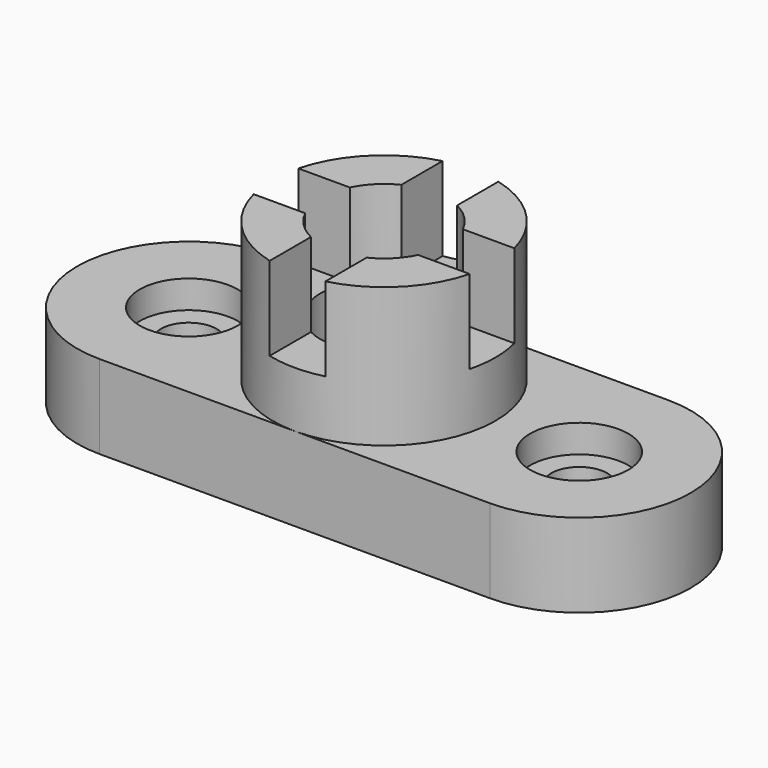
from build123d import *

# Parameters (mm, degrees)
F1_DEPTH  = 19.05
F2_R      = 25.4
F3_DEPTH  = 31.75
F5_DEPTH  = 19.05
F6_R      = 14.351
F7_DEPTH  = 31.751
F8_R      = 11.176
F9_DEPTH  = 6.35
F10_R     = 6.35
F11_DEPTH = 12.701


with BuildPart() as f1:
    # F0 (on Top) → F1 (new body)
    with BuildSketch(Plane.XY):
        with BuildLine():
            Line((48.867112, 25.4), (-40.032888, 25.4))
            ThreePointArc((-40.032888, 25.4), (-65.432888, 0), (-40.032888, -25.4))
            Line((-40.032888, -25.4), (48.867112, -25.4))
            ThreePointArc((48.867112, -25.4), (74.267112, 0), (48.867112, 25.4))
        make_face()
    extrude(amount=F1_DEPTH)

    # F2 (on face) → F3 (join)
    with BuildSketch(Plane.XY.offset(19.05)):
        with Locations((4.417112, 0)):
            Circle(F2_R)
    extrude(amount=F3_DEPTH)

    # F4 (on face) → F5 (cut)
    with BuildSketch(Plane.XY.offset(50.8)):
        with BuildLine():
            Line((-1.932888, 24.593444), (-1.932888, 12.869681))
            ThreePointArc((-1.932888, 12.869681), (-5.730577, 10.147689), (-8.452569, 6.35))
            Line((-8.452569, 6.35), (-20.176332, 6.35))
            ThreePointArc((-20.176332, 6.35), (-20.982888, 0), (-20.176332, -6.35))
            Line((-20.176332, -6.35), (-8.452569, -6.35))
            ThreePointArc((-8.452569, -6.35), (-5.730577, -10.147689), (-1.932888, -12.869681))
            Line((-1.932888, -12.869681), (-1.932888, -24.593444))
            ThreePointArc((-1.932888, -24.593444), (4.417112, -25.4), (10.767112, -24.593444))
            Line((10.767112, -24.593444), (10.767112, -12.869681))
            ThreePointArc((10.767112, -12.869681), (14.564802, -10.147689), (17.286794, -6.35))
            Line((17.286794, -6.35), (29.010556, -6.35))
            ThreePointArc((29.010556, -6.35), (29.614666, -3.200509), (29.817112, 0))
            ThreePointArc((29.817112, 0), (29.614666, 3.200509), (29.010556, 6.35))
            Line((29.010556, 6.35), (17.286794, 6.35))
            ThreePointArc((17.286794, 6.35), (14.564802, 10.147689), (10.767112, 12.869681))
            Line((10.767112, 12.869681), (10.767112, 24.593444))
            ThreePointArc((10.767112, 24.593444), (4.417112, 25.4), (-1.932888, 24.593444))
        make_face()
    extrude(amount=-F5_DEPTH, mode=Mode.SUBTRACT)

    # F6 (on face) → F7 (cut, through all)
    with BuildSketch(Plane.XY.offset(31.75)):
        with Locations((4.417112, 0)):
            Circle(F6_R)
    extrude(amount=-F7_DEPTH, mode=Mode.SUBTRACT)

    # F8 (on face) → F9 (cut)
    with BuildSketch(Plane.XY.offset(19.05)):
        with Locations((-40.032888, 0)):
            Circle(F8_R)
        with Locations((48.867112, 0)):
            Circle(F8_R)
    extrude(amount=-F9_DEPTH, mode=Mode.SUBTRACT)

    # F10 (on face) → F11 (cut, through all)
    with BuildSketch(Plane.XY.offset(12.7)):
        with Locations((-40.032888, 0)):
            Circle(F10_R)
        with Locations((48.867112, 0)):
            Circle(F10_R)
    extrude(amount=-F11_DEPTH, mode=Mode.SUBTRACT)


solid = f1.part
